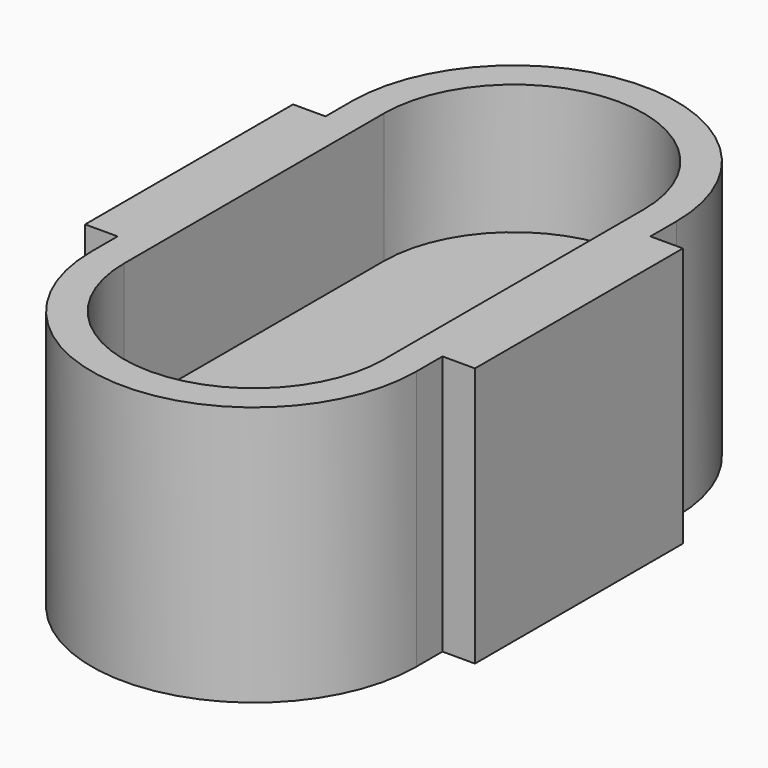
from build123d import *

# Parameters (mm, degrees)
F1_DEPTH = 80
F2_DEPTH = 40
F0_W     = 10
F0_H     = 80
F3_DEPTH = 80


with BuildPart() as f1:
    # F0 (on Top) → F1 (new body)
    with BuildSketch(Plane.XY):
        with BuildLine():
            ThreePointArc((50, 50), (0, 100), (-50, 50))
            Line((-50, 50), (-50, 40))
            Line((-50, 40), (-50, -40))
            Line((-50, -40), (-50, -50))
            ThreePointArc((-50, -50), (0, -100), (50, -50))
            Line((50, -50), (50, -40))
            Line((50, -40), (50, 40))
            Line((50, 40), (50, 50))
        make_face()
        with BuildLine():
            Line((-40, -50), (-40, 50))
            ThreePointArc((-40, 50), (0, 90), (40, 50))
            Line((40, 50), (40, -50))
            ThreePointArc((40, -50), (0, -90), (-40, -50))
        make_face(mode=Mode.SUBTRACT)
    extrude(amount=F1_DEPTH)

    # F0 (on Top) → F2 (join)
    with BuildSketch(Plane.XY):
        with BuildLine():
            ThreePointArc((40, 50), (0, 90), (-40, 50))
            Line((-40, 50), (-40, -50))
            ThreePointArc((-40, -50), (0, -90), (40, -50))
            Line((40, -50), (40, 50))
        make_face()
    extrude(amount=F2_DEPTH)

    # F0 (on Top) → F3 (join)
    with BuildSketch(Plane.XY):
        with Locations((55, 0)):
            Rectangle(F0_W, F0_H)
        with Locations((-55, 0)):
            Rectangle(F0_W, F0_H)
    extrude(amount=F3_DEPTH)


solid = f1.part
